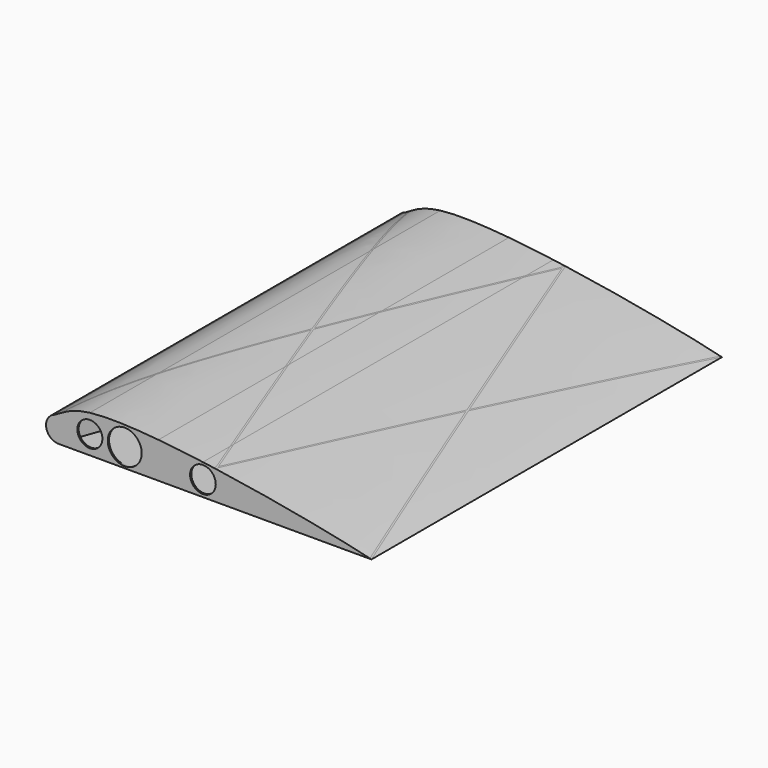
from build123d import *

# Parameters (mm, degrees)
F1_DEPTH = 140
F2_T     = -0.5
F4_DEPTH = 25
F0_W     = 143.9863108099
F0_H     = 85.2490626276
F5_DEPTH = 1000


with BuildPart() as f1:
    # F0 (on Front) → F1 (new body)
    with BuildSketch(Plane.XZ):
        with BuildLine():
            ThreePointArc((6.8931616097, 3.4567240663), (5.0440924328, -1.0423779868), (8.9058858157, -4))
            Line((8.9058858157, -4), (8.9058858157, 0))
            Line((8.9058858157, 0), (8.9058858157, 4))
            ThreePointArc((8.9058858157, 4), (8.3056033579, 3.9547011228), (7.7189169607, 3.8198304854))
            add(Edge.make_bspline(
                [(6.8931616097, 3.4567240663), (7.1671692641, 3.5526761618), (7.4395796175, 3.6757769611), (7.7189169607, 3.8198304854)],
                knots=[0, 0, 0, 0, 0.0319560574, 0.0319560574, 0.0319560574, 0.0319560574], degree=3))
        make_face()
        with BuildLine():
            ThreePointArc((12.9058858157, 0), (11.7343129405, -2.8284271247), (8.9058858157, -4))
            Line((8.9058858157, -4), (18.9058858157, -4))
            Line((18.9058858157, -4), (18.9058858157, -2))
            ThreePointArc((18.9058858157, -2), (14.9058858157, 2), (18.9058858157, 6))
            Line((18.9058858157, 6), (18.9058858157, 8))
            add(Edge.make_bspline(
                [(7.7189169607, 3.8198304854), (9.8286439453, 4.9078110756), (12.3335000762, 7.1909763912), (18.9058858157, 8)],
                knots=[0.0319560574, 0.0319560574, 0.0319560574, 0.0319560574, 0.2733078071, 0.2733078071, 0.2733078071, 0.2733078071], degree=3))
            ThreePointArc((7.7189169607, 3.8198304854), (8.3056033579, 3.9547011228), (8.9058858157, 4))
            ThreePointArc((8.9058858157, 4), (11.7343129405, 2.8284271247), (12.9058858157, 0))
        make_face()
        with BuildLine():
            Line((18.9058858157, -2), (18.9058858157, -4))
            Line((18.9058858157, -4), (40.8326969018, -4))
            Line((40.8326969018, -4), (40.8326969018, 2))
            Line((40.8326969018, 2), (35.4772553119, 2))
            ThreePointArc((35.4772553119, 2), (30.0540197641, -3.4232355478), (24.6307842162, 2))
            Line((24.6307842162, 2), (22.9058858157, 2))
            ThreePointArc((22.9058858157, 2), (21.7343129405, -0.8284271247), (18.9058858157, -2))
        make_face()
        with BuildLine():
            Line((40.8326969018, 2), (40.8326969018, -4))
            Line((40.8326969018, -4), (44.5024557412, -4))
            Line((44.5024557412, -4), (55.0356768072, -4))
            Line((55.0356768072, -4), (55.0356768072, -3.133680116))
            ThreePointArc((55.0356768072, -3.133680116), (52.0303793302, -1.82467816), (50.9420263678, 1.267374051))
            Line((50.9420263678, 1.267374051), (40.8326969018, 2))
        make_face()
        with BuildLine():
            Line((55.0356768072, -3.133680116), (55.0356768072, -4))
            Line((55.0356768072, -4), (108.9058858157, -4))
            add(Edge.make_bspline(
                [(55.0356768072, 5.8651734237), (76.9848989248, 2.9093856947), (100.7531405588, -1.8890320981), (108.9058858157, -4)],
                knots=[0.5626736041, 0.5626736041, 0.5626736041, 0.5626736041, 1, 1, 1, 1], degree=3))
            Line((55.0356768072, 5.8651734237), (55.0356768072, 5.0750922212))
            ThreePointArc((55.0356768072, 5.0750922212), (57.9379160996, 3.872945345), (59.1400629758, 0.9707060526))
            ThreePointArc((59.1400629758, 0.9707060526), (57.9379160996, -1.9315332398), (55.0356768072, -3.133680116))
        make_face()
        with BuildLine():
            Line((35.4772553119, 2), (40.8326969018, 2))
            Line((40.8326969018, 2), (40.8326969018, 7.5159238008))
            add(Edge.make_bspline(
                [(18.9058858157, 8), (24.1332424557, 8.6434581142), (31.9336530673, 8.3543978355), (40.8326969018, 7.5159238008)],
                knots=[0.2733078071, 0.2733078071, 0.2733078071, 0.2733078071, 0.4652672753, 0.4652672753, 0.4652672753, 0.4652672753], degree=3))
            Line((18.9058858157, 8), (18.9058858157, 6))
            ThreePointArc((18.9058858157, 6), (21.7343129405, 4.8284271247), (22.9058858157, 2))
            Line((22.9058858157, 2), (24.6307842162, 2))
            ThreePointArc((24.6307842162, 2), (30.0540197641, 7.4232355478), (35.4772553119, 2))
        make_face()
        with BuildLine():
            Line((40.8326969018, 7.5159238008), (40.8326969018, 2))
            Line((40.8326969018, 2), (50.9420263678, 1.267374051))
            ThreePointArc((50.9420263678, 1.267374051), (52.2402925946, 3.9760035296), (55.0356768072, 5.0750922212))
            Line((55.0356768072, 5.0750922212), (55.0356768072, 5.8651734237))
            add(Edge.make_bspline(
                [(40.8326969018, 7.5159238008), (45.3483542836, 7.0904554545), (50.1468954165, 6.5235202192), (55.0356768072, 5.8651734237)],
                knots=[0.4652672753, 0.4652672753, 0.4652672753, 0.4652672753, 0.5626736041, 0.5626736041, 0.5626736041, 0.5626736041], degree=3))
        make_face()
        with BuildLine():
            Line((40.8326969018, 2), (40.8326969018, -4))
            Line((40.8326969018, -4), (44.5024557412, -4))
            Line((44.5024557412, -4), (55.0356768072, -4))
            Line((55.0356768072, -4), (55.0356768072, -3.133680116))
            ThreePointArc((55.0356768072, -3.133680116), (52.0303793302, -1.82467816), (50.9420263678, 1.267374051))
            Line((50.9420263678, 1.267374051), (40.8326969018, 2))
        make_face()
        with BuildLine():
            Line((8.9058858157, 0), (8.9058858157, -4))
            ThreePointArc((8.9058858157, -4), (11.7343129405, -2.8284271247), (12.9058858157, 0))
            ThreePointArc((12.9058858157, 0), (11.7343129405, 2.8284271247), (8.9058858157, 4))
            Line((8.9058858157, 4), (8.9058858157, 0))
        make_face()
        with BuildLine():
            Line((30.0540197641, 2), (35.4772553119, 2))
            ThreePointArc((35.4772553119, 2), (30.0540197641, 7.4232355478), (24.6307842162, 2))
            Line((24.6307842162, 2), (30.0540197641, 2))
        make_face()
        with BuildLine():
            ThreePointArc((24.6307842162, 2), (30.0540197641, -3.4232355478), (35.4772553119, 2))
            Line((35.4772553119, 2), (30.0540197641, 2))
            Line((30.0540197641, 2), (24.6307842162, 2))
        make_face()
        with BuildLine():
            ThreePointArc((18.9058858157, 6), (14.9058858157, 2), (18.9058858157, -2))
            Line((18.9058858157, -2), (18.9058858157, 2))
            Line((18.9058858157, 2), (18.9058858157, 6))
        make_face()
        with BuildLine():
            Line((55.0356768072, 0.9707060526), (50.9420263678, 1.267374051))
            ThreePointArc((50.9420263678, 1.267374051), (52.0303793302, -1.82467816), (55.0356768072, -3.133680116))
            Line((55.0356768072, -3.133680116), (55.0356768072, 0.9707060526))
        make_face()
        with BuildLine():
            Line((55.0356768072, 0.9707060526), (55.0356768072, -3.133680116))
            ThreePointArc((55.0356768072, -3.133680116), (57.9379160996, -1.9315332398), (59.1400629758, 0.9707060526))
            ThreePointArc((59.1400629758, 0.9707060526), (57.9379160996, 3.872945345), (55.0356768072, 5.0750922212))
            Line((55.0356768072, 5.0750922212), (55.0356768072, 0.9707060526))
        make_face()
        with BuildLine():
            ThreePointArc((55.0356768072, 5.0750922212), (52.2402925946, 3.9760035296), (50.9420263678, 1.267374051))
            Line((50.9420263678, 1.267374051), (55.0356768072, 0.9707060526))
            Line((55.0356768072, 0.9707060526), (55.0356768072, 5.0750922212))
        make_face()
        with BuildLine():
            Line((18.9058858157, 2), (18.9058858157, -2))
            ThreePointArc((18.9058858157, -2), (21.7343129405, -0.8284271247), (22.9058858157, 2))
            Line((22.9058858157, 2), (18.9058858157, 2))
        make_face()
        with BuildLine():
            Line((18.9058858157, 6), (18.9058858157, 2))
            Line((18.9058858157, 2), (22.9058858157, 2))
            ThreePointArc((22.9058858157, 2), (21.7343129405, 4.8284271247), (18.9058858157, 6))
        make_face()
    extrude(amount=F1_DEPTH)

    # F2 (hollow: no face is removed)
    offset(amount=F2_T, kind=Kind.INTERSECTION, mode=Mode.SUBTRACT)

    # F3 (on face) → F4 (join)
    with BuildSketch(Plane(origin=(0, 0, -4), x_dir=(1, 0, 0), z_dir=(0, 0, -1))):
        Polygon((58.9058858157, 140), (58.4058858157, 140), (58.6558858157, 139.3), align=None)
        Polygon((59.4058858157, 140), (58.9058858157, 140), (59.1558858157, 139.3), align=None)
        Polygon((58.9058858157, 138.6), (58.9058858157, 140), (58.6558858157, 139.3), align=None)
        Polygon((59.1558858157, 139.3), (58.9058858157, 140), (58.9058858157, 138.6), align=None)
        Polygon((58.9058858157, 1.4), (58.6558858157, 0.7), (58.9058858157, 0), align=None)
        Polygon((59.1558858157, 0.7), (58.9058858157, 1.4), (58.9058858157, 0), align=None)
        Polygon((9.4058858157, 140), (8.9058858157, 140), (33.9058858157, 70), (34.1558858157, 70.7), align=None)
        Polygon((108.4058858157, 140), (83.6558858157, 70.7), (83.9058858157, 70), (108.9058858157, 140), align=None)
        Polygon((34.4058858157, 70), (34.1558858157, 69.3), (58.6558858157, 0.7), (58.9058858157, 1.4), align=None)
        Polygon((34.1558858157, 70.7), (33.9058858157, 70), (34.1558858157, 69.3), (34.4058858157, 70), align=None)
        Polygon((83.6558858157, 70.7), (83.4058858157, 70), (83.6558858157, 69.3), (83.9058858157, 70), align=None)
        Polygon((83.4058858157, 70), (58.9058858157, 1.4), (59.1558858157, 0.7), (83.6558858157, 69.3), align=None)
        Polygon((59.1558858157, 139.3), (58.9058858157, 138.6), (83.4058858157, 70), (83.6558858157, 70.7), align=None)
        Polygon((58.6558858157, 139.3), (34.1558858157, 70.7), (34.4058858157, 70), (58.9058858157, 138.6), align=None)
        Polygon((34.1558858157, 69.3), (33.9058858157, 70), (8.9058858157, 0), (9.4058858157, 0), align=None)
        Polygon((83.9058858157, 70), (83.6558858157, 69.3), (108.4058858157, 0), (108.9058858157, 0), align=None)
    extrude(amount=-F4_DEPTH)

    # F0 (on Front) → F5 (cut)
    with BuildSketch(Plane.XZ):
        with Locations((48.4126824886, -2.0556543022)):
            Rectangle(F0_W, F0_H)
        with BuildLine():
            Line((18.9058858157, -4), (8.9058858157, -4))
            ThreePointArc((8.9058858157, -4), (5.0440924328, -1.0423779868), (6.8931616097, 3.4567240663))
            ThreePointArc((6.8931616097, 3.4567240663), (7.2957707611, 3.6616293519), (7.7189169607, 3.8198304854))
            add(Edge.make_bspline(
                [(7.7189169607, 3.8198304854), (9.8286439453, 4.9078110756), (12.3335000762, 7.1909763912), (18.9058858157, 8)],
                knots=[0.0319560574, 0.0319560574, 0.0319560574, 0.0319560574, 0.2733078071, 0.2733078071, 0.2733078071, 0.2733078071], degree=3))
            add(Edge.make_bspline(
                [(18.9058858157, 8), (24.1332424557, 8.6434581142), (31.9336530673, 8.3543978355), (40.8326969018, 7.5159238008)],
                knots=[0.2733078071, 0.2733078071, 0.2733078071, 0.2733078071, 0.4652672753, 0.4652672753, 0.4652672753, 0.4652672753], degree=3))
            add(Edge.make_bspline(
                [(40.8326969018, 7.5159238008), (45.3483542836, 7.0904554545), (50.1468954165, 6.5235202192), (55.0356768072, 5.8651734237)],
                knots=[0.4652672753, 0.4652672753, 0.4652672753, 0.4652672753, 0.5626736041, 0.5626736041, 0.5626736041, 0.5626736041], degree=3))
            add(Edge.make_bspline(
                [(55.0356768072, 5.8651734237), (76.9848989248, 2.9093856947), (100.7531405588, -1.8890320981), (108.9058858157, -4)],
                knots=[0.5626736041, 0.5626736041, 0.5626736041, 0.5626736041, 1, 1, 1, 1], degree=3))
            Line((108.9058858157, -4), (55.0356768072, -4))
            Line((55.0356768072, -4), (44.5024557412, -4))
            Line((44.5024557412, -4), (40.8326969018, -4))
            Line((40.8326969018, -4), (18.9058858157, -4))
        make_face(mode=Mode.SUBTRACT)
        with BuildLine():
            Line((30.0540197641, 2), (35.4772553119, 2))
            ThreePointArc((35.4772553119, 2), (30.0540197641, 7.4232355478), (24.6307842162, 2))
            Line((24.6307842162, 2), (30.0540197641, 2))
        make_face()
        with BuildLine():
            ThreePointArc((24.6307842162, 2), (30.0540197641, -3.4232355478), (35.4772553119, 2))
            Line((35.4772553119, 2), (30.0540197641, 2))
            Line((30.0540197641, 2), (24.6307842162, 2))
        make_face()
        with BuildLine():
            Line((55.0356768072, 0.9707060526), (55.0356768072, -3.133680116))
            ThreePointArc((55.0356768072, -3.133680116), (57.9379160996, -1.9315332398), (59.1400629758, 0.9707060526))
            ThreePointArc((59.1400629758, 0.9707060526), (57.9379160996, 3.872945345), (55.0356768072, 5.0750922212))
            Line((55.0356768072, 5.0750922212), (55.0356768072, 0.9707060526))
        make_face()
        with BuildLine():
            ThreePointArc((18.9058858157, 6), (14.9058858157, 2), (18.9058858157, -2))
            Line((18.9058858157, -2), (18.9058858157, 2))
            Line((18.9058858157, 2), (18.9058858157, 6))
        make_face()
        with BuildLine():
            Line((55.0356768072, 0.9707060526), (50.9420263678, 1.267374051))
            ThreePointArc((50.9420263678, 1.267374051), (52.0303793302, -1.82467816), (55.0356768072, -3.133680116))
            Line((55.0356768072, -3.133680116), (55.0356768072, 0.9707060526))
        make_face()
        with BuildLine():
            ThreePointArc((55.0356768072, 5.0750922212), (52.2402925946, 3.9760035296), (50.9420263678, 1.267374051))
            Line((50.9420263678, 1.267374051), (55.0356768072, 0.9707060526))
            Line((55.0356768072, 0.9707060526), (55.0356768072, 5.0750922212))
        make_face()
        with BuildLine():
            Line((18.9058858157, 2), (18.9058858157, -2))
            ThreePointArc((18.9058858157, -2), (21.7343129405, -0.8284271247), (22.9058858157, 2))
            Line((22.9058858157, 2), (18.9058858157, 2))
        make_face()
        with BuildLine():
            Line((18.9058858157, 6), (18.9058858157, 2))
            Line((18.9058858157, 2), (22.9058858157, 2))
            ThreePointArc((22.9058858157, 2), (21.7343129405, 4.8284271247), (18.9058858157, 6))
        make_face()
    extrude(amount=F5_DEPTH, mode=Mode.SUBTRACT)


solid = f1.part
